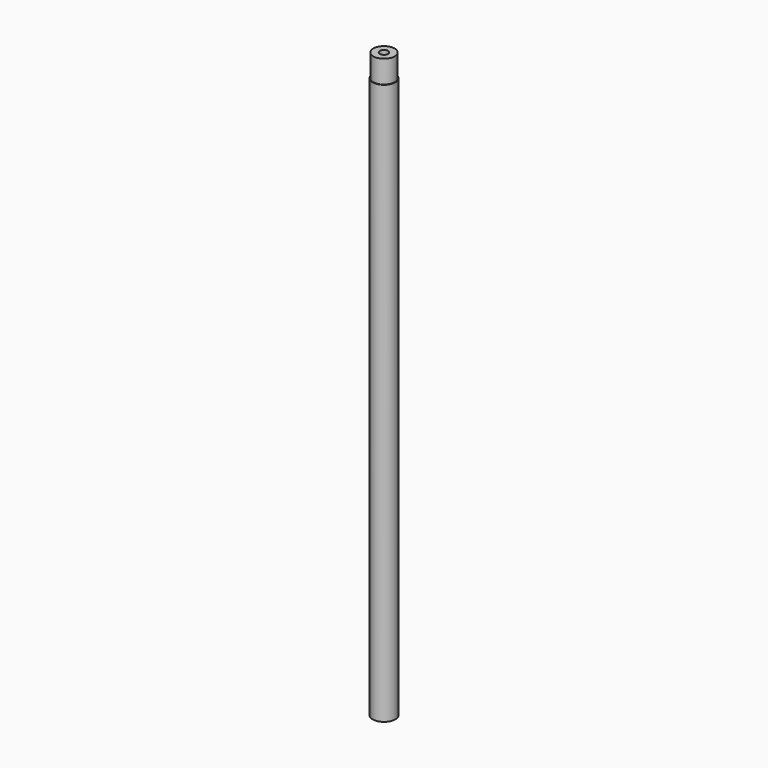
from build123d import *

# Parameters (mm, degrees)
F0_W = 2.23
F0_H = 90


with BuildPart() as f1:
    # F0 (on Front) → F1 (revolve)
    with BuildSketch(Plane.XZ):
        with Locations((-2.385, -45)):
            Rectangle(F0_W, F0_H)
        Polygon((-3.5, 83), (-3.5, 0), (-1.27, 0), (-1.27, 90), (-3.3, 90), (-3.3, 83), align=None)
    revolve(axis=Axis((0, 0, 0), (0, 0, -1)))


solid = f1.part
